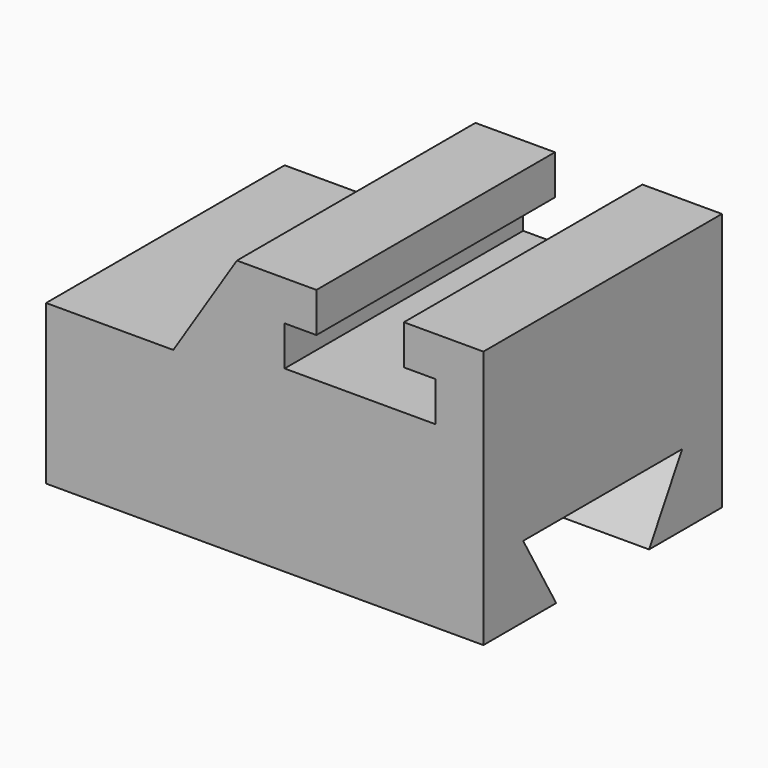
from build123d import *

# Parameters (mm, degrees)
F1_DEPTH = 75
F3_DEPTH = 110.001


with BuildPart() as f1:
    # F0 (on Front) → F1 (new body)
    with BuildSketch(Plane.XZ):
        Polygon((-54.763541, 11.177084), (-54.763541, -28.822916), (55.236459, -28.822916), (55.236459, 36.177084), (35.236459, 36.177084), (35.236459, 26.177084), (43.236459, 26.177084), (43.236459, 16.177084), (5.236459, 16.177084), (5.236459, 26.177084), (13.236459, 26.177084), (13.236459, 36.177084), (-6.763541, 36.177084), (-22.763541, 11.177084), align=None)
    extrude(amount=F1_DEPTH)

    # F2 (on face) → F3 (cut, through all)
    with BuildSketch(Plane.YZ.offset(55.236459)):
        Polygon((-12.5, -10.822916), (-62.5, -10.822916), (-52.107695, -28.822916), (-22.892305, -28.822916), align=None)
    extrude(amount=-F3_DEPTH, mode=Mode.SUBTRACT)


solid = f1.part
